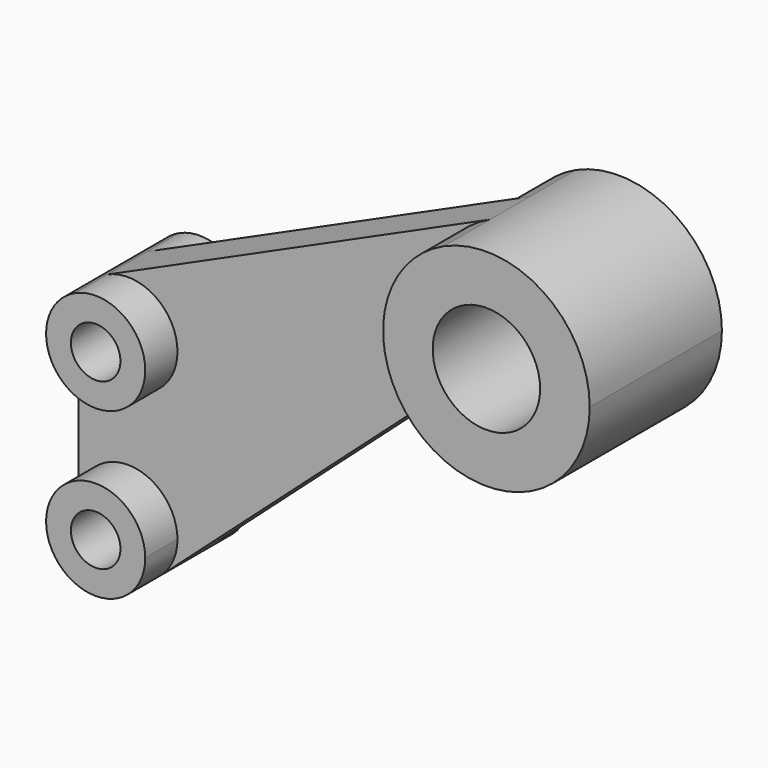
from build123d import *

# Parameters (mm, degrees)
F0_R     = 26.0096
F1_DEPTH = 40.005
F0_R_2   = 11.9888
F2_DEPTH = 31.496
F3_DEPTH = 11.9888


with BuildPart() as f1:
    # F0 (on Front) → F1 (new body, symmetric)
    with BuildSketch(Plane.XZ):
        with BuildLine():
            ThreePointArc((-25.898693, -42.784552), (24.55605, -43.569032), (50.0126, 0))
            ThreePointArc((50.0126, 0), (27.125002, 42.017787), (-20.589386, 45.577816))
            ThreePointArc((-20.589386, 45.577816), (-49.922564, 2.999628), (-25.898693, -42.784552))
        make_face()
        Circle(F0_R, mode=Mode.SUBTRACT)
    extrude(amount=F1_DEPTH, both=True)



with BuildPart() as f2:
    # F0 (on Front) → F2 (new body, symmetric)
    with BuildSketch(Plane.XZ):
        with BuildLine():
            ThreePointArc((-219.9894, -140.0048), (-205.782899, -161.917641), (-179.980017, -157.891659))
            ThreePointArc((-179.980017, -157.891659), (-174.073559, -149.801299), (-171.9834, -140.0048))
            ThreePointArc((-171.9834, -140.0048), (-195.9864, -116.0018), (-219.9894, -140.0048))
        make_face()
        with Locations((-195.9864, -140.0048)):
            Circle(F0_R_2, mode=Mode.SUBTRACT)
        with BuildLine():
            ThreePointArc((-171.9834, -59.9948), (-182.968052, -39.828823), (-205.868051, -38.120226))
            ThreePointArc((-205.868051, -38.120226), (-216.152377, -46.976452), (-219.9894, -59.9948))
            ThreePointArc((-219.9894, -59.9948), (-195.9864, -83.9978), (-171.9834, -59.9948))
        make_face()
        with Locations((-195.9864, -59.9948)):
            Circle(F0_R_2, mode=Mode.SUBTRACT)
    extrude(amount=F2_DEPTH, both=True)


with BuildPart() as f1_1:
    add(f1.part)

    add(f2.part)  # F3 merges F2
    # F0 (on Front) → F3 (join, symmetric)
    with BuildSketch(Plane.XZ):
        with BuildLine():
            ThreePointArc((-25.898693, -42.784552), (-49.922564, 2.999628), (-20.589386, 45.577816))
            Line((-20.589386, 45.577816), (-205.868051, -38.120226))
            ThreePointArc((-205.868051, -38.120226), (-182.968052, -39.828823), (-171.9834, -59.9948))
            ThreePointArc((-171.9834, -59.9948), (-195.9864, -83.9978), (-219.9894, -59.9948))
            Line((-219.9894, -59.9948), (-219.9894, -140.0048))
            ThreePointArc((-219.9894, -140.0048), (-195.9864, -116.0018), (-171.9834, -140.0048))
            ThreePointArc((-171.9834, -140.0048), (-174.073559, -149.801299), (-179.980017, -157.891659))
            Line((-179.980017, -157.891659), (-54.304779, -45.428869))
            ThreePointArc((-54.304779, -45.428869), (-40.537796, -39.422421), (-25.898693, -42.784552))
        make_face()
    extrude(amount=F3_DEPTH, both=True)


solid = f1_1.part
